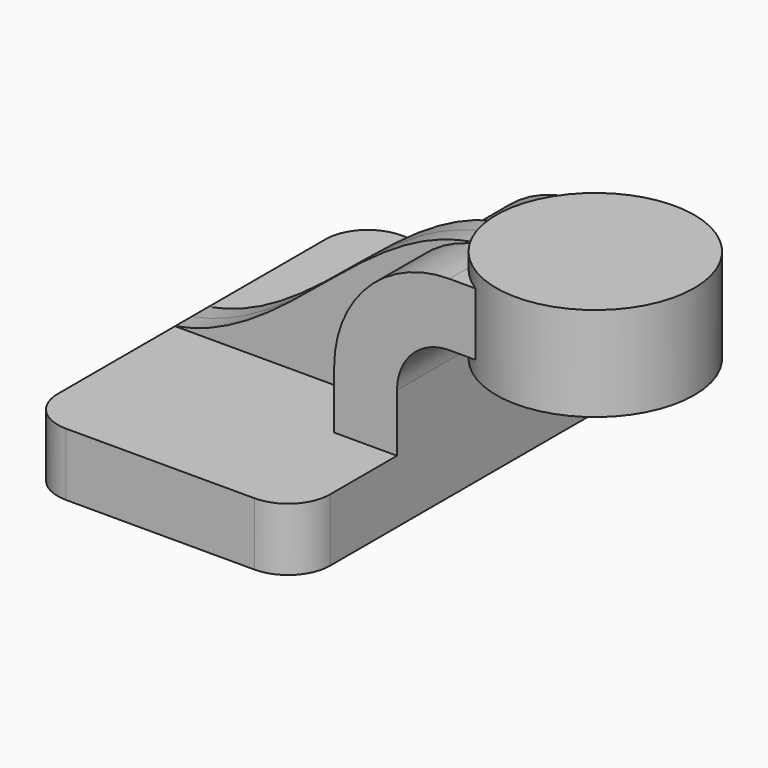
from build123d import *

# Parameters (mm, degrees)
F1_DEPTH = 63.5
F0_W     = 20.7627861344
F0_H     = 19.05
F2_DEPTH = 25.4
F3_DEPTH = 6.35
F5_R     = 12.7


with BuildPart() as f1:
    # F0 (on Front) → F1 (new body, symmetric)
    with BuildSketch(Plane.XZ):
        Polygon((-41.275, -9.525), (41.275, -9.525), (41.275, 9.525), (22.225, 9.525), (-41.275, 9.525), align=None)
    extrude(amount=F1_DEPTH, both=True)

    # F0 (on Front) → F2 (join, symmetric)
    with BuildSketch(Plane.XZ):
        with BuildLine():
            Line((22.225, 9.525), (41.275, 9.525))
            Line((41.275, 9.525), (41.275, 27.0002))
            ThreePointArc((41.275, 27.0002), (45.9246798487, 38.2255201513), (57.15, 42.8752))
            Line((57.15, 42.8752), (60.325, 42.8752))
            Line((60.325, 42.8752), (60.325, 61.9252))
            Line((60.325, 61.9252), (57.15, 61.9252))
            ThreePointArc((57.15, 61.9252), (32.4542956671, 51.6959043329), (22.225, 27.0002))
            Line((22.225, 27.0002), (22.225, 9.525))
        make_face()
        with Locations((70.7063930672, 52.4002)):
            Rectangle(F0_W, F0_H)
        with Locations((70.7063930672, 52.4002)):
            Rectangle(F0_W, F0_H)
    extrude(amount=F2_DEPTH, both=True)

    # F0 (on Front) → F3 (join, symmetric)
    with BuildSketch(Plane.XZ):
        with BuildLine():
            add(Edge.make_bspline(
                [(-41.275, 9.525), (-4.0282602422, 16.1482468247), (17.7380666137, 62.469098717), (57.15, 61.9252)],
                knots=[0, 0, 0, 0, 111.5045361635, 111.5045361635, 111.5045361635, 111.5045361635], degree=3))
            Line((-41.275, 9.525), (22.225, 9.525))
            Line((22.225, 9.525), (22.225, 27.0002))
            ThreePointArc((22.225, 27.0002), (32.4542956671, 51.6959043329), (57.15, 61.9252))
        make_face()
    extrude(amount=F3_DEPTH, both=True)

    # F0 (on Front) → F4 (revolve)
    with BuildSketch(Plane.XZ):
        Polygon((81.0877861344, 66.675), (81.0877861344, 61.9252), (81.0877861344, 42.8752), (81.0877861344, 38.1), (111.125, 38.1), (111.125, 66.675), align=None)
    revolve(axis=Axis((81.0877861344, 0, 52.4002), (0, 0, 1)))

    # F5
    f5_edges = [f1.edges().sort_by_distance(p)[0] for p in [
        (-41.275, 63.5, 0),
        (-41.275, -63.5, 0),
        (41.275, -63.5, 0),
        (41.275, 63.5, 0),
    ]]
    fillet(f5_edges, radius=F5_R)


solid = f1.part
